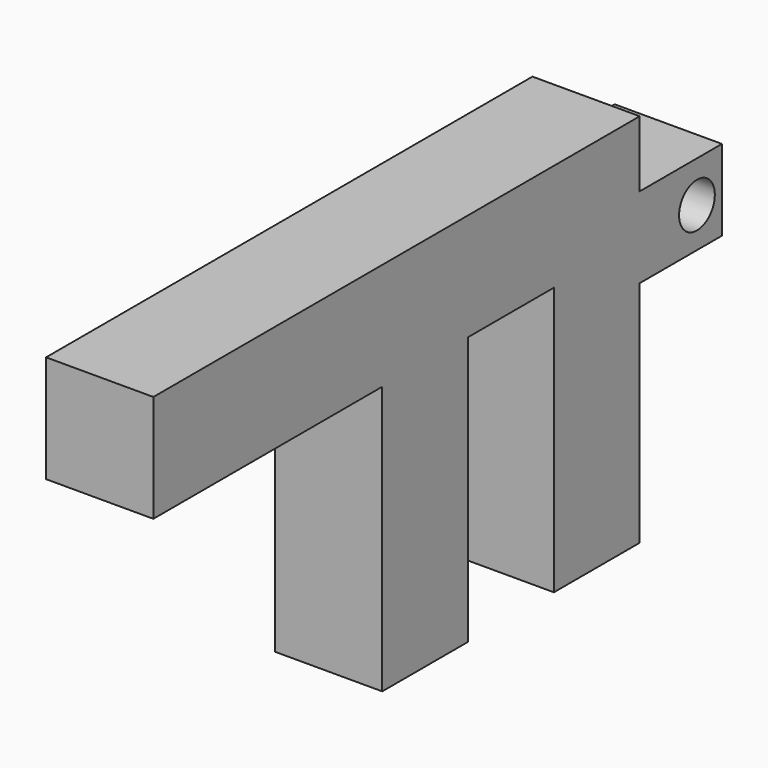
from build123d import *

# Parameters (mm, degrees)
F0_R     = 15.875
F1_DEPTH = 76.2


with BuildPart() as f1:
    # F0 (on Right) → F1 (new body)
    with BuildSketch(Plane.YZ):
        Polygon((431.8, 0), (0, 0), (0, -76.2), (203.2, -76.2), (203.2, -266.7), (279.4, -266.7), (279.4, -76.2), (355.6, -76.2), (355.6, -266.7), (431.8, -266.7), (431.8, -104.384176), (504.766583, -104.384176), (504.766583, -46.957929), (431.8, -46.957929), align=None)
        with Locations((482.6, -76.2)):
            Circle(F0_R, mode=Mode.SUBTRACT)
    extrude(amount=F1_DEPTH)


solid = f1.part
